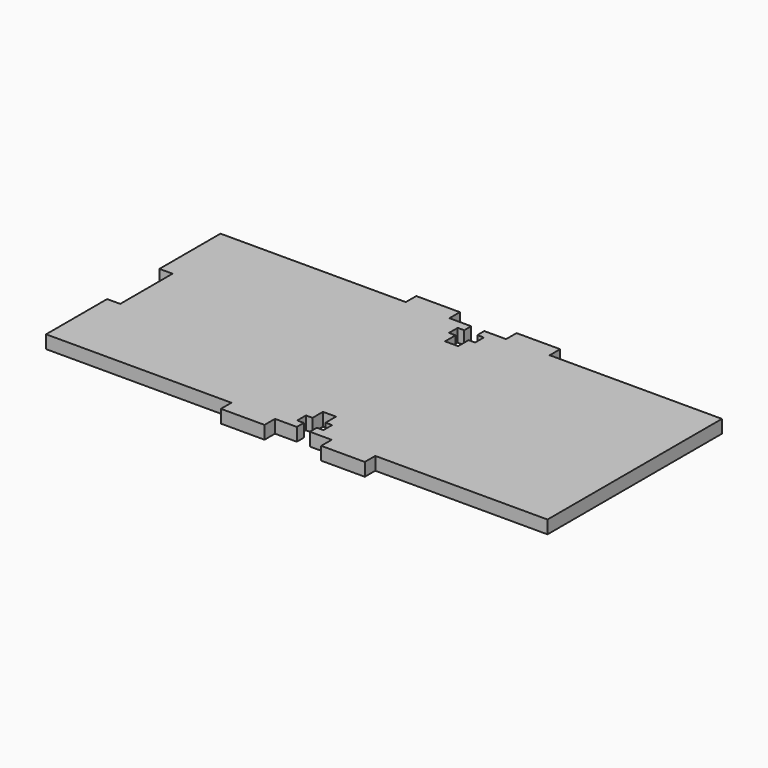
from build123d import *

# Parameters (mm, degrees)
F1_DEPTH = 3


with BuildPart() as f1:
    # F0 (on Top) → F1 (new body)
    with BuildSketch(Plane.XY):
        Polygon((-76.435372, -27.280482), (-118.935372, -27.280482), (-118.935372, -44.780482), (-115.935372, -44.780482), (-115.935372, -59.780482), (-118.935372, -59.780482), (-118.935372, -77.280482), (-76.435372, -77.280482), (-76.435372, -80.280482), (-66.435372, -80.280482), (-66.435372, -77.280482), (-61.435372, -77.280482), (-61.435372, -75.280482), (-62.935372, -75.280482), (-62.935372, -72.780482), (-61.435372, -72.780482), (-61.435372, -69.780482), (-58.435372, -69.780482), (-58.435372, -72.780482), (-56.935372, -72.780482), (-56.935372, -75.280482), (-58.435372, -75.280482), (-58.435372, -77.280482), (-53.435372, -77.280482), (-53.435372, -80.280482), (-43.435372, -80.280482), (-43.435372, -77.280482), (-3.935372, -77.280482), (-3.935372, -27.280482), (-43.435372, -27.280482), (-43.435372, -24.280482), (-53.435372, -24.280482), (-53.435372, -27.280482), (-58.435372, -27.280482), (-58.435372, -29.280482), (-56.935372, -29.280482), (-56.935372, -31.780482), (-58.435372, -31.780482), (-58.435372, -34.780482), (-61.435372, -34.780482), (-61.435372, -31.780482), (-62.935372, -31.780482), (-62.935372, -29.280482), (-61.435372, -29.280482), (-61.435372, -27.280482), (-66.435372, -27.280482), (-66.435372, -24.280482), (-76.435372, -24.280482), align=None)
    extrude(amount=F1_DEPTH)


solid = f1.part
